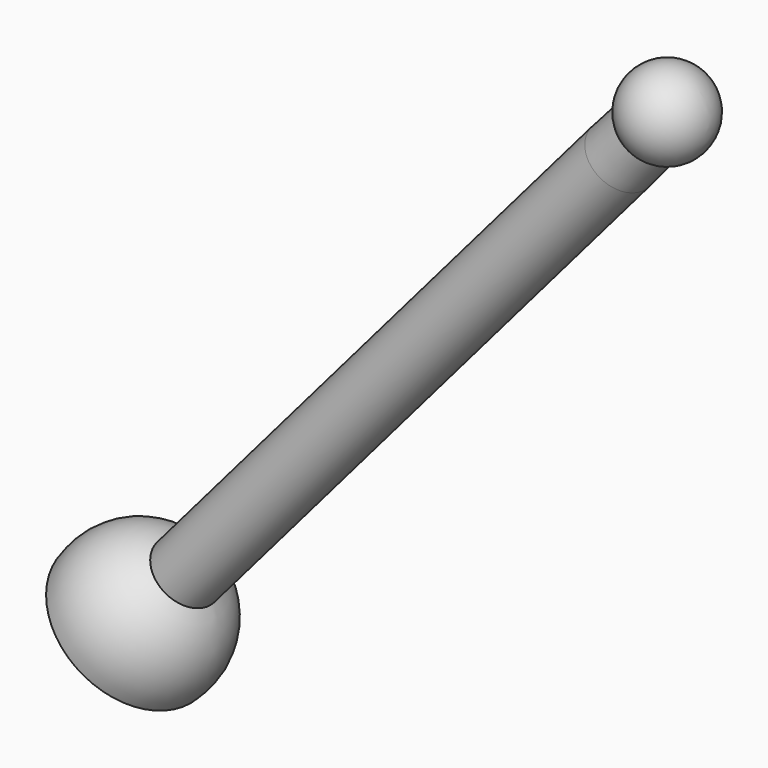
from build123d import *


with BuildPart() as f1:
    # F0 (on Front) → F1 (revolve)
    with BuildSketch(Plane.XZ):
        with BuildLine():
            Line((-30.6872168456, -3.5048910814), (-15.4884507161, 14.2265442647))
            Line((-15.4884507161, 14.2265442647), (-14.5293042528, 15.3782278862))
            ThreePointArc((-14.5293042528, 15.3782278862), (-13.2809669828, 16.435495793), (-13.7415573534, 18.0052148369))
            Line((-13.7415573534, 18.0052148369), (-16.5074619164, 14.7784096138))
            Line((-16.5074619164, 14.7784096138), (-31.388414858, -2.5822532666))
            Line((-31.388414858, -2.5822532666), (-32.2019162, -3.5313136264))
            ThreePointArc((-32.2019162, -3.5313136264), (-31.8153444589, -4.0434095491), (-31.6781178105, -4.6701860581))
            ThreePointArc((-31.6781178105, -4.6701860581), (-31.8575510062, -5.3815954446), (-32.3529222308, -5.9228042183))
            Line((-32.3529222308, -5.9228042183), (-31.3695344278, -6.7417859586))
            ThreePointArc((-31.3695344278, -6.7417859586), (-30.4872511238, -5.2374042476), (-30.6872168456, -3.5048910814))
        make_face()
    revolve(axis=Axis((-23.9479383872, 0, 6.0980781736), (-0.6508010737, 0, -0.7592482878)))


solid = f1.part
